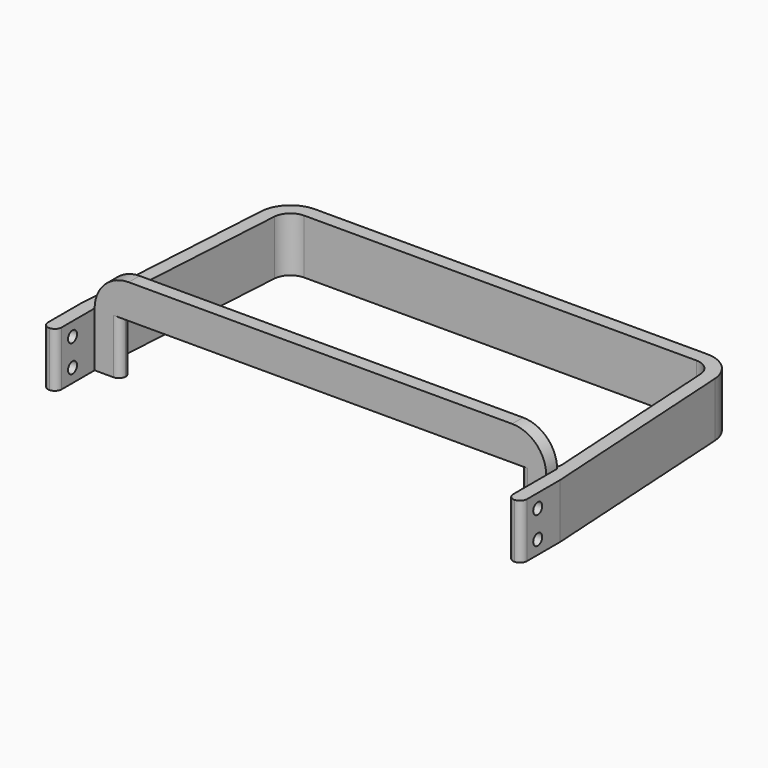
from build123d import *

# Parameters (mm, degrees)
PAD_DEPTH         = 8
SKETCH001_R       = 1.65
POCKET_DEPTH      = 70.201
POCKET_DEPTH_BACK = -70.201
FILLET001_R       = 9
FILLET002_R       = 5
FILLET003_R       = 2
FILLET004_R       = 1.99
PAD001_DEPTH      = 4
FILLET005_R       = 1.99
FILLET006_R       = 2
FILLET007_R       = 9.99


with BuildPart() as part:
    # Sketch → Pad (new body, symmetric)
    with BuildSketch(Plane.XY):
        Polygon((-70.2, 0), (-66.2, 0), (-66.2, 14), (-62.2, 80), (62.2, 80), (66.2, 14), (66.2, 0), (70.2, 0), (70.2, 14.121101), (65.964915, 84), (-65.964915, 84), (-70.2, 14.121101), align=None)
    extrude(amount=PAD_DEPTH, both=True)

    # Sketch001 → Pocket (cut, two sides)
    with BuildSketch(Plane.YZ) as pocket_sk:
        with Locations((6, 4)):
            Circle(SKETCH001_R)
        with Locations((6, -4)):
            Circle(SKETCH001_R)
    extrude(amount=-POCKET_DEPTH, mode=Mode.SUBTRACT)
    extrude(pocket_sk.sketch, amount=-POCKET_DEPTH_BACK, mode=Mode.SUBTRACT)

    # Fillet001
    fillet001_edges = [part.edges().sort_by_distance(p)[0] for p in [
        (-65.964915, 84, 0),
        (65.964915, 84, 0),
    ]]
    fillet(fillet001_edges, radius=FILLET001_R)

    # Fillet002
    fillet002_edges = [part.edges().sort_by_distance(p)[0] for p in [
        (62.2, 80, 0),
        (-62.2, 80, 0),
    ]]
    fillet(fillet002_edges, radius=FILLET002_R)

    # Fillet003
    fillet003_edges = [part.edges().sort_by_distance(p)[0] for p in [
        (-70.2, 0, 0),
        (70.2, 0, 0),
    ]]
    fillet(fillet003_edges, radius=FILLET003_R)

    # Fillet004
    fillet004_edges = [part.edges().sort_by_distance(p)[0] for p in [
        (-66.2, 0, 0),
        (66.2, 0, 0),
    ]]
    fillet(fillet004_edges, radius=FILLET004_R)

    # Sketch002 (on DatumPlane) → Pad001 (join)
    with BuildSketch(Plane.XZ.offset(-14.1)):
        Polygon((-58.7, -8), (-66.2, -8), (-66.2, 18), (66.2, 18), (66.2, -8), (58.7, -8), (58.7, 8), (-58.7, 8), align=None)
    extrude(amount=-PAD001_DEPTH)

    # Fillet005
    fillet005_edges = [part.edges().sort_by_distance(p)[0] for p in [
        (-58.7, 14.1, 0),
        (58.7, 14.1, 0),
    ]]
    fillet(fillet005_edges, radius=FILLET005_R)

    # Fillet006
    fillet006_edges = [part.edges().sort_by_distance(p)[0] for p in [
        (-65.951515, 18.1, 0),
        (-58.7, 18.1, 0),
        (58.7, 18.1, 0),
        (65.951515, 18.1, 0),
    ]]
    fillet(fillet006_edges, radius=FILLET006_R)

    # Fillet007
    fillet007_edges = [part.edges().sort_by_distance(p)[0] for p in [
        (66.2, 16.1, 18),
        (-66.2, 16.1, 18),
    ]]
    fillet(fillet007_edges, radius=FILLET007_R)


solid = part.part
